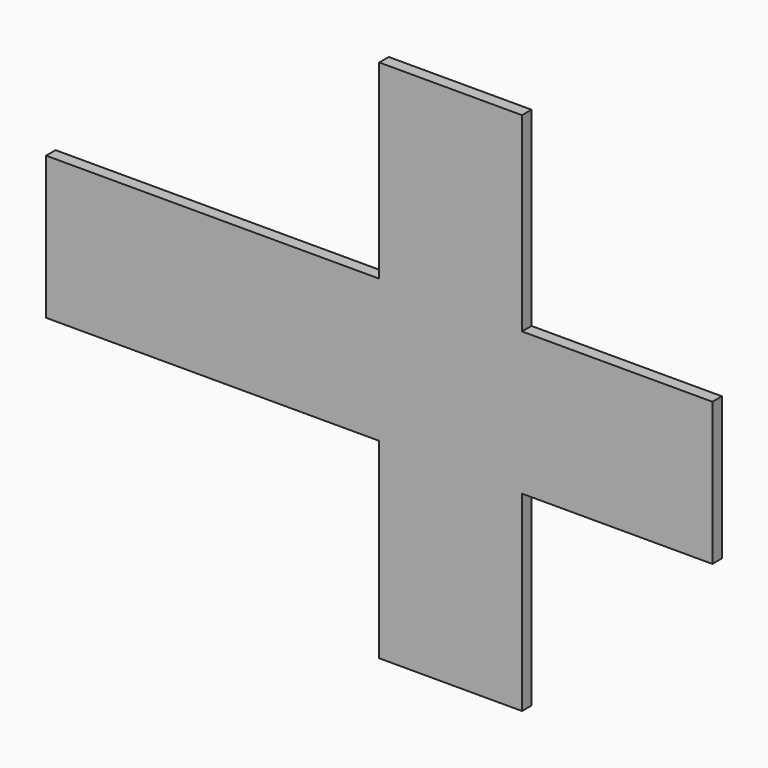
from build123d import *

# Parameters (mm, degrees)
F0_W     = 38.1
F0_H     = 50.8
F0_W_2   = 50.8
F0_H_2   = 38.1
F1_DEPTH = 3.175


with BuildPart() as f1:
    # F0 (on Front) → F1 (new body)
    with BuildSketch(Plane.XZ):
        with Locations((3.607814, 46.976129)):
            Rectangle(F0_W, F0_H)
        Polygon((22.657814, 21.576129), (-15.442186, 21.576129), (-15.442186, -16.523871), (-15.442186, -16.798465), (22.657814, -16.798465), (22.657814, -16.523871), align=None)
        with Locations((-40.842186, 2.526129)):
            Rectangle(F0_W_2, F0_H_2)
        with Locations((48.057814, 2.526129)):
            Rectangle(F0_W_2, F0_H_2)
        with Locations((-85.292186, 2.526129)):
            Rectangle(F0_W, F0_H_2)
        with Locations((3.607814, -42.198465)):
            Rectangle(F0_W, F0_H)
    extrude(amount=-F1_DEPTH)


solid = f1.part
